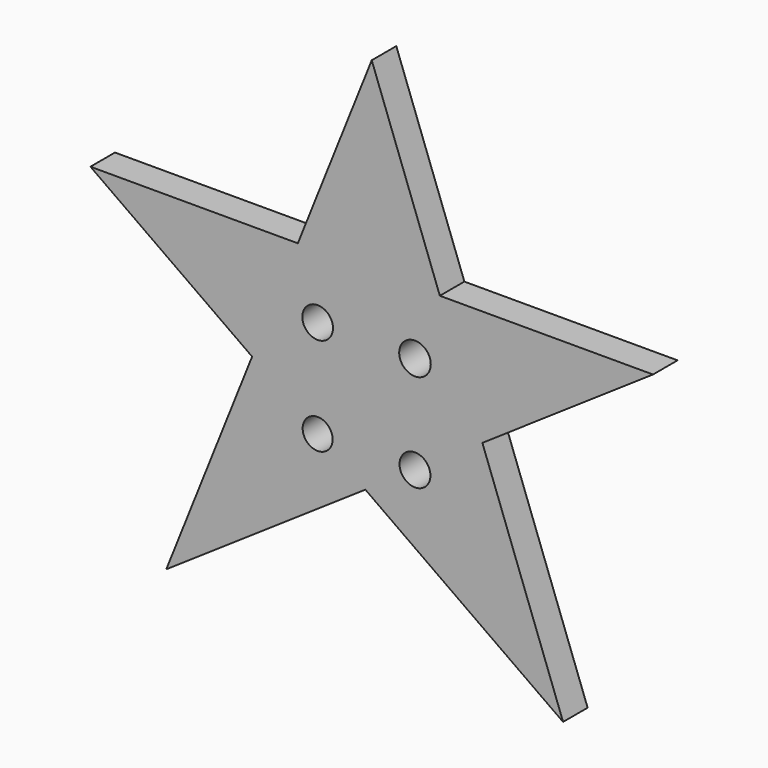
from build123d import *

# Parameters (mm, degrees)
F1_DEPTH = 5
F2_R     = 2.5724780171
F2_R_2   = 2.4442311935
F2_R_3   = 2.5167092106
F2_R_4   = 2.5
F3_DEPTH = 50


with BuildPart() as f1:
    # F0 (on Front) → F1 (new body)
    with BuildSketch(Plane.XZ):
        Polygon((-12.0401639329, 26.2979026884), (-19.4929930235, 7.6178495693), (-1.0388098795, -5.4653409289), (18.0299088795, 7.4544074256), (11.0993361797, 26.2979026884), align=None)
        Polygon((0, 56.4758256078), (-12.0401639329, 26.2979026884), (11.0993361797, 26.2979026884), align=None)
        Polygon((-45.8416976035, 26.2979026884), (-19.4929930235, 7.6178495693), (-12.0401639329, 26.2979026884), align=None)
        Polygon((-19.4929930235, 7.6178495693), (-33.4831215441, -27.4475384504), (-1.0388098795, -5.4653409289), align=None)
        Polygon((18.0299088795, 7.4544074256), (-1.0388098795, -5.4653409289), (31.1838481575, -28.3097643405), align=None)
        Polygon((11.0993361797, 26.2979026884), (18.0299088795, 7.4544074256), (45.8416976035, 26.2979026884), align=None)
    extrude(amount=F1_DEPTH)

    # F2 (on face) → F3 (cut)
    with BuildSketch(Plane.XZ.offset(5)):
        with Locations((7.0487202483, 15.9816861663)):
            Circle(F2_R)
        with Locations((-8.8128024074, 0)):
            Circle(F2_R_2)
        with Locations((7.0487202483, 0)):
            Circle(F2_R_3)
        with Locations((-8.8128024074, 15.9816861663)):
            Circle(F2_R_4)
    extrude(amount=-F3_DEPTH, mode=Mode.SUBTRACT)


solid = f1.part
